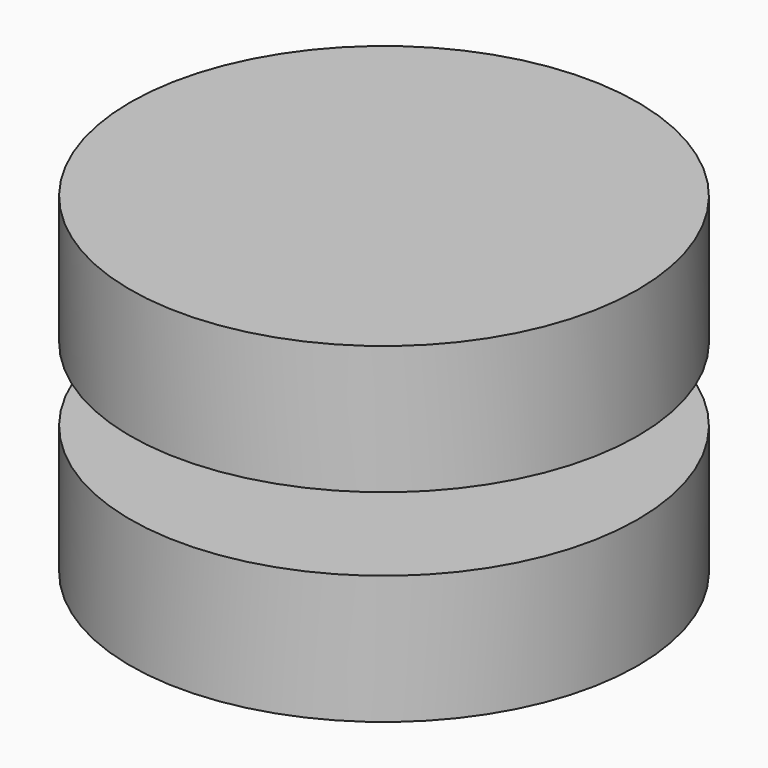
from build123d import *

# Parameters (mm, degrees)
F0_R     = 6.9
F0_R_2   = 1.95
F1_DEPTH = 3.5
F2_DEPTH = 8
F4_DEPTH = 3.5


with BuildPart() as f1:
    # F0 (on Top) → F1 (new body)
    with BuildSketch(Plane.XY):
        Circle(F0_R)
        Circle(F0_R_2, mode=Mode.SUBTRACT)
        Circle(F0_R_2)
    extrude(amount=F1_DEPTH)

    # F0 (on Top) → F2 (join)
    with BuildSketch(Plane.XY):
        Circle(F0_R_2)
    extrude(amount=-F2_DEPTH)


with BuildPart() as f1_1:
    # F3: moved
    add(f1.part.moved(Location((0, 0, 2))))


with BuildPart() as f4:
    # F0 (on Top) → F4 (new body)
    with BuildSketch(Plane.XY):
        Circle(F0_R)
        Circle(F0_R_2, mode=Mode.SUBTRACT)
    extrude(amount=-F4_DEPTH)


solid = Compound([f1_1.part, f4.part])
